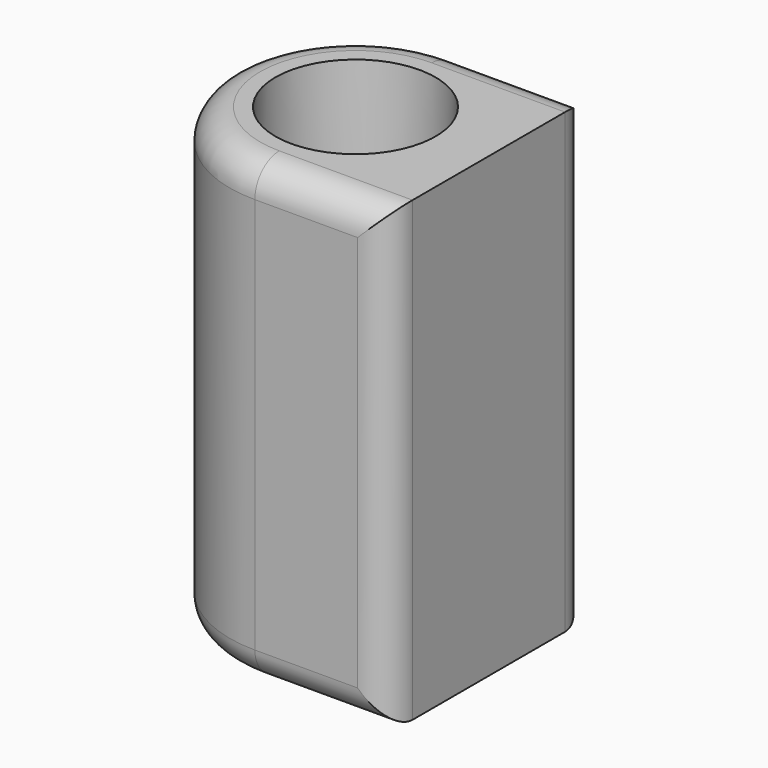
from build123d import *

# Parameters (mm, degrees)
F2_W     = 5.4314797744
F2_H     = 2.6976783276
F2_W_2   = 3.3097509295
F2_H_2   = 11.1936684698
F2_H_3   = 2.6086532027
F3_DEPTH = 30
F4_R     = 2


with BuildPart() as f1:
    # F0 (on Front) → F1 (revolve)
    with BuildSketch(Plane.XZ):
        Polygon((-4.75, 22.0135599375), (-5.25, 52.0135599375), (-8.25, 52.0135599375), (-8.25, 22.0135599375), align=None)
    revolve(axis=Axis((0, 0, 37.0135599375), (0, 0, -1)))

    # F2 (on face) → F3 (join)
    with BuildSketch(Plane.XY.offset(52.0135599375)):
        with Locations((2.7157398872, 6.9011608362)):
            Rectangle(F2_W, F2_H)
        with Locations((7.0863552392, 6.9011608362)):
            Rectangle(F2_W_2, F2_H)
        with Locations((7.0863552392, -0.0445125625)):
            Rectangle(F2_W_2, F2_H_2)
        with Locations((2.7157398872, -6.9456733987)):
            Rectangle(F2_W, F2_H_3)
        with Locations((7.0863552392, -6.9456733987)):
            Rectangle(F2_W_2, F2_H_3)
    extrude(amount=-F3_DEPTH)

    # F4
    f4_edges = [f1.edges().sort_by_distance(p)[0] for p in [
        (8.741231, -8.25, 37.01356),
        (8.741231, 8.25, 37.01356),
        (4.370615, -8.25, 52.01356),
        (-8.25, 0, 22.01356),
    ]]
    fillet(f4_edges, radius=F4_R)


solid = f1.part
